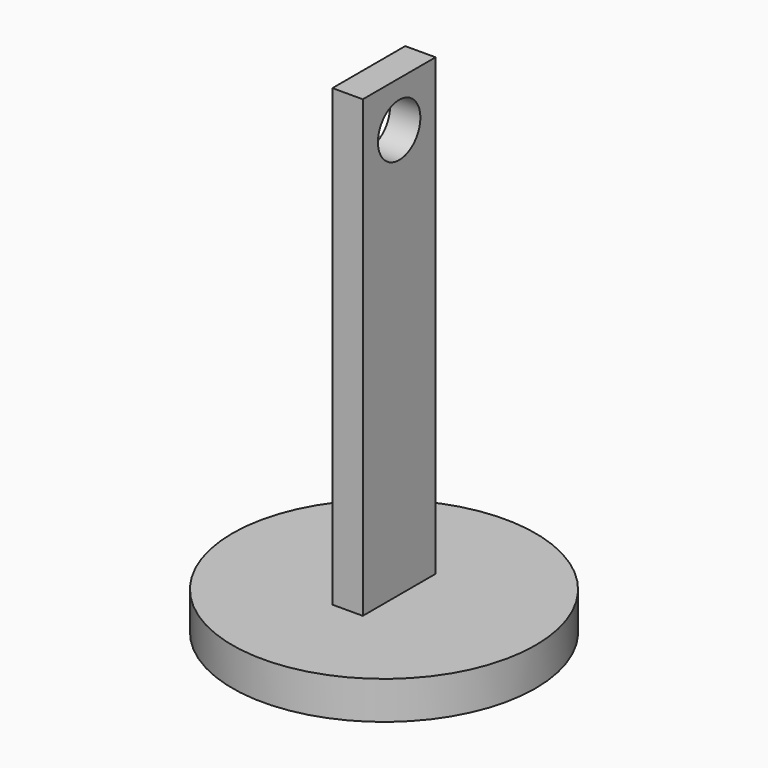
from build123d import *

# Parameters (mm, degrees)
F0_R     = 100
F1_DEPTH = 25
F2_W     = 20
F2_H     = 60
F3_DEPTH = 300
F4_R     = 17.5
F5_DEPTH = 20


with BuildPart() as f1:
    # F0 (on Top) → F1 (new body)
    with BuildSketch(Plane.XY):
        Circle(F0_R)
    extrude(amount=F1_DEPTH)

    # F2 (on face) → F3 (join)
    with BuildSketch(Plane.XY.offset(25)):
        Rectangle(F2_W, F2_H)
    extrude(amount=F3_DEPTH)

    # F4 (on face) → F5 (cut, through all)
    with BuildSketch(Plane(origin=(-10, 0, 0), x_dir=(0, -1, 0), z_dir=(-1, 0, 0))):
        with Locations((0, 295)):
            Circle(F4_R)
    extrude(amount=-F5_DEPTH, mode=Mode.SUBTRACT)


solid = f1.part
